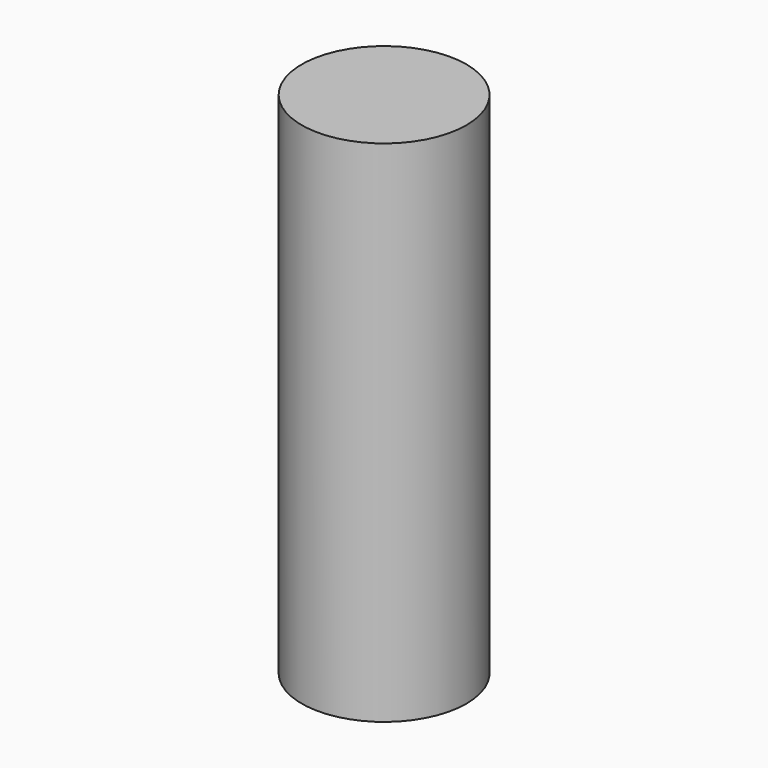
from build123d import *

# Parameters (mm, degrees)
CYLINDER_R     = 2.4257
CYLINDER_DEPTH = 15


with BuildPart() as part:
    # Cylinder → Cylinder (new body)
    with BuildSketch(Plane.XY.offset(-2.5)):
        Circle(CYLINDER_R)
    extrude(amount=CYLINDER_DEPTH)


solid = part.part
